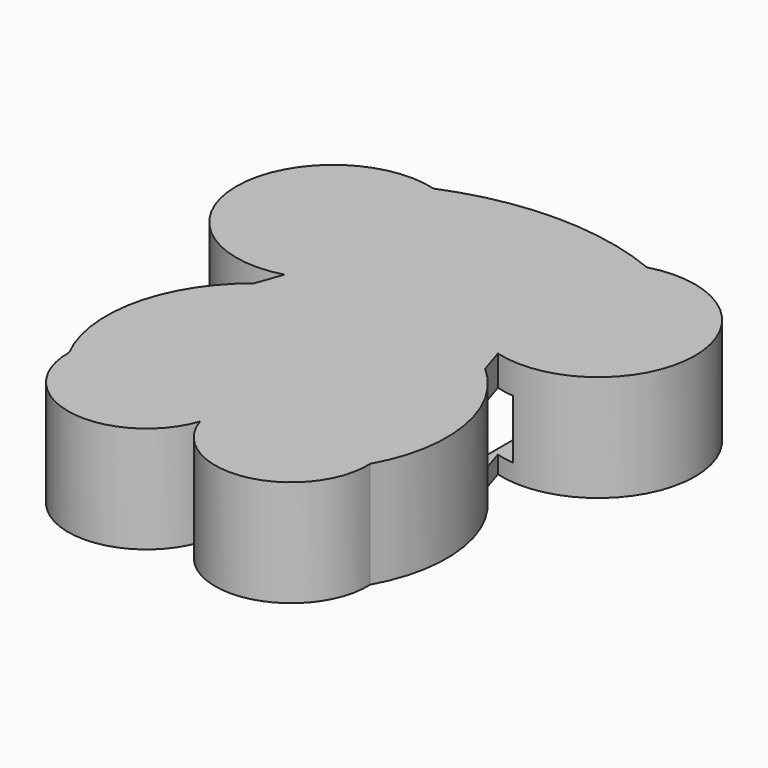
from build123d import *

# Parameters (mm, degrees)
F1_DEPTH = 10.87167
F2_W     = 20.7378324121
F2_H     = 41.1411811365
F3_DEPTH = 9.78587
F4_W     = 8.6351763457
F4_H     = 6.0070783366
F5_DEPTH = 63.13654


with BuildPart() as f1:
    # F0 (on Top) → F1 (new body)
    with BuildSketch(Plane.XY):
        with BuildLine():
            ThreePointArc((-19.6146064737, 24.572059019), (-7.0926943283, 34.0930740127), (-19.6146064737, 43.6140890064))
            ThreePointArc((-19.6146064737, 43.6140890064), (-30.5177033911, 45.7644046028), (-41.4208003086, 43.6140890064))
            ThreePointArc((-41.4208003086, 43.6140890064), (-53.942712454, 34.0930740127), (-41.4208003086, 24.572059019))
            Line((-41.4208003086, 24.572059019), (-42.3597145092, 21.8851334871))
            ThreePointArc((-42.3597145092, 21.8851334871), (-47.713167553, 13.3357192606), (-46.4203947683, 3.3316859921))
            ThreePointArc((-46.4203947683, 3.3316859921), (-39.8100362087, -4.6984516114), (-30.8246676488, 0.5401648148))
            ThreePointArc((-30.8246676488, 0.5401648148), (-22.0252975249, -4.6761652077), (-15.660289069, 3.3316859921))
            ThreePointArc((-15.660289069, 3.3316859921), (-13.9296875224, 13.1566111484), (-18.7605294597, 21.8851334871))
            Line((-18.7605294597, 21.8851334871), (-19.6146064737, 24.572059019))
        make_face()
        with BuildLine():
            ThreePointArc((-30.7483132929, 5.6346026249), (-30.371478369, 3.0811636063), (-30.8246676488, 0.5401648148))
            ThreePointArc((-30.8246676488, 0.5401648148), (-31.2152322971, 3.0938096117), (-30.7483132929, 5.6346026249))
        make_face(mode=Mode.SUBTRACT)
        with BuildLine():
            ThreePointArc((-30.7483132929, 5.6346026249), (-31.2152322971, 3.0938096117), (-30.8246676488, 0.5401648148))
            ThreePointArc((-30.8246676488, 0.5401648148), (-30.371478369, 3.0811636063), (-30.7483132929, 5.6346026249))
        make_face()
    extrude(amount=F1_DEPTH)

    # F2 (on Top) → F3 (cut)
    with BuildSketch(Plane.XY):
        with Locations((-30.6165078655, 22.0384193235)):
            Rectangle(F2_W, F2_H)
    extrude(amount=F3_DEPTH, mode=Mode.SUBTRACT)

    # F4 (on Front) → F5 (cut)
    with BuildSketch(Plane.XZ):
        with Locations((-22.1452759579, 4.781266558)):
            Rectangle(F4_W, F4_H)
    extrude(amount=-F5_DEPTH, mode=Mode.SUBTRACT)


solid = f1.part
